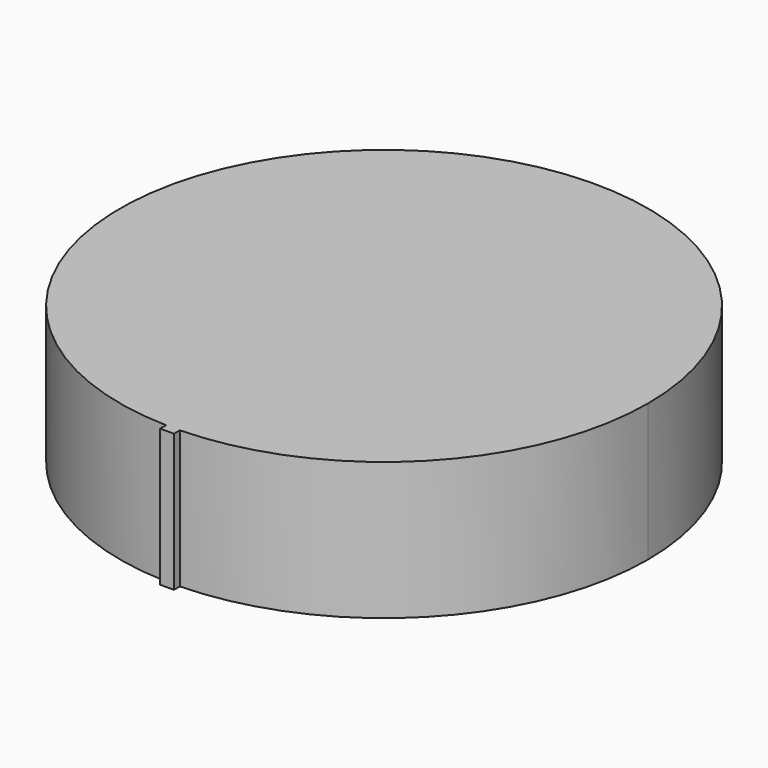
from build123d import *

# Parameters (mm, degrees)
F0_R     = 19.2
F1_DEPTH = 10
F2_R     = 17
F3_DEPTH = 8
F4_R     = 5.25
F4_R_2   = 3.35
F5_DEPTH = 10
F7_DEPTH = 9
F8_W     = 1
F8_H     = 1
F9_DEPTH = 10


with BuildPart() as f1:
    # F0 (on Top) → F1 (new body)
    with BuildSketch(Plane.XY):
        Circle(F0_R)
    extrude(amount=F1_DEPTH)

    # F2 (on Top) → F3 (cut)
    with BuildSketch(Plane.XY):
        Circle(F2_R)
    extrude(amount=F3_DEPTH, mode=Mode.SUBTRACT)

    # F4 (on Top) → F5 (join)
    with BuildSketch(Plane.XY):
        Circle(F4_R)
        Circle(F4_R_2, mode=Mode.SUBTRACT)
    extrude(amount=F5_DEPTH)

    # F6 (on Top) → F7 (join)
    with BuildSketch(Plane.XY):
        with BuildLine():
            Line((4.017093, -1.060893), (-3.993784, -1.060893))
            ThreePointArc((-3.993784, -1.060893), (0.011655, -3.969964), (4.017093, -1.060893))
        make_face()
    extrude(amount=F7_DEPTH)

    # F8 (on Top) → F9 (join)
    with BuildSketch(Plane.XY):
        with Locations((0, -19.229485)):
            Rectangle(F8_W, F8_H)
    extrude(amount=F9_DEPTH)


solid = f1.part
